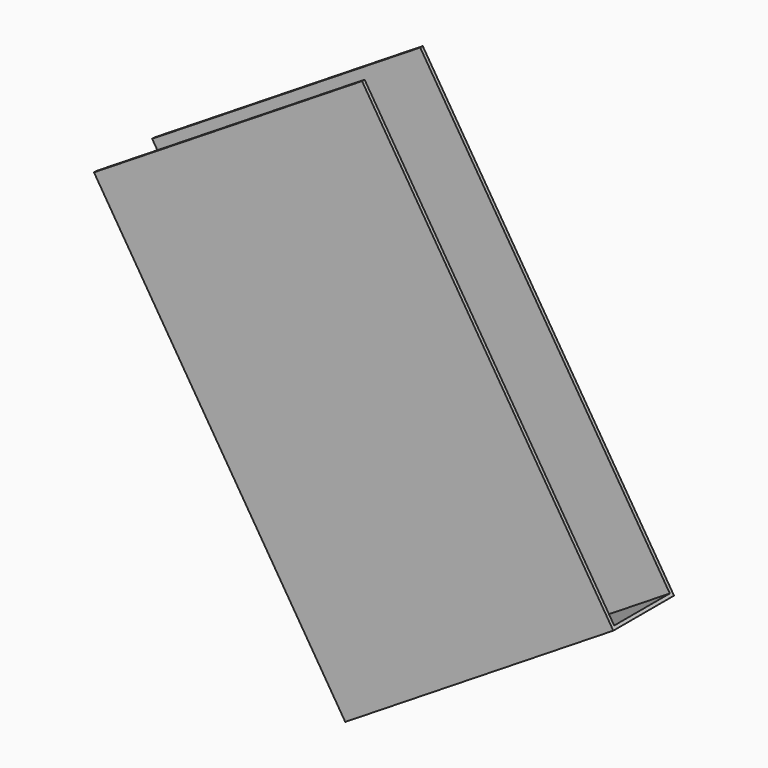
from build123d import *

# Parameters (mm, degrees)
BOX150_W           = 5
BOX150_H           = 7.45
BOX150_DEPTH       = 1.1
BOX149_W           = 5
BOX149_H           = 7.5
BOX149_DEPTH       = 1.2
CUT070_ROLL_ANGLE  = -90
CUT070_PITCH_ANGLE = -32


with BuildPart() as small_cu_gnd_electrode060:
    # Box150 → Box150 (new body)
    with BuildSketch(Plane.XY.offset(0.05)):
        with Locations((2.5, 3.725)):
            Rectangle(BOX150_W, BOX150_H)
    extrude(amount=BOX150_DEPTH)


with BuildPart() as small_cu_electrode001_long_axis_v006:
    # Box149 → Box149 (new body)
    with BuildSketch(Plane.XY):
        with Locations((2.5, 3.75)):
            Rectangle(BOX149_W, BOX149_H)
    extrude(amount=BOX149_DEPTH)

    # Cut070: cut Small Cu GND Electrode060
    add(small_cu_gnd_electrode060.part, mode=Mode.SUBTRACT)


with BuildPart() as small_cu_electrode001_long_axis_v006_1:
    # Cut070 roll: moved
    add(small_cu_electrode001_long_axis_v006.part.rotate(Axis((0, 0, 0), (1, 0, 0)), CUT070_ROLL_ANGLE))


with BuildPart() as small_cu_electrode001_long_axis_v006_2:
    # Cut070 pitch: moved
    add(small_cu_electrode001_long_axis_v006_1.part.rotate(Axis((0, 0, 0), (0, 1, 0)), CUT070_PITCH_ANGLE))


with BuildPart() as small_cu_electrode001_long_axis_v006_3:
    # Cut070 placement: moved
    add(small_cu_electrode001_long_axis_v006_2.part.moved(Location((-9.429562, 2.14, 36.957147))))


solid = small_cu_electrode001_long_axis_v006_3.part
